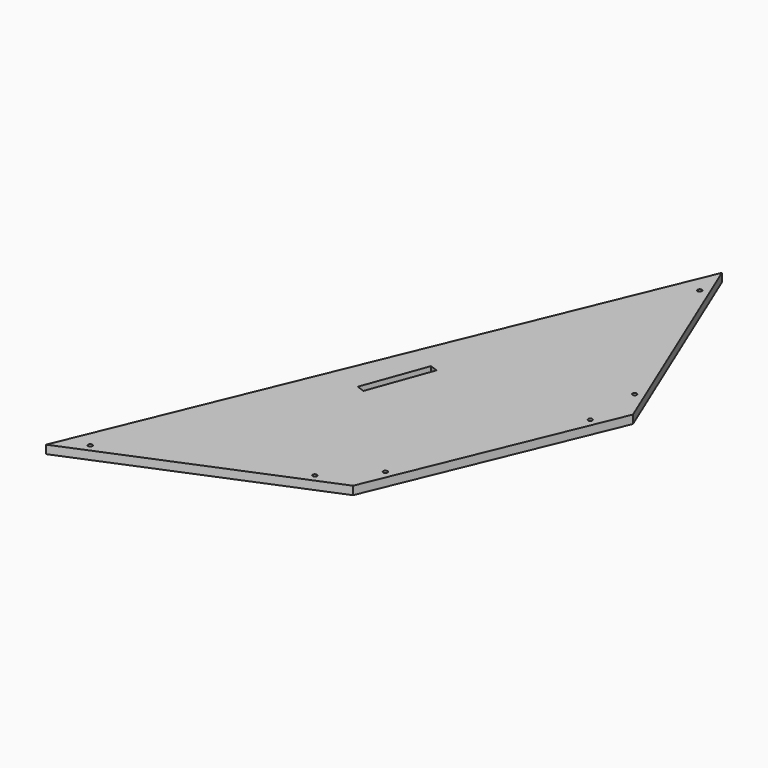
from build123d import *

# Parameters (mm, degrees)
F1_DEPTH = 12.7
F3_DEPTH = 12.701
F5_DEPTH = 25.4


with BuildPart() as f1:
    # F0 (on Top) → F1 (new body)
    with BuildSketch(Plane.XY):
        Polygon((349.925731, -349.925731), (494.869714, 0), (349.925731, 349.925731), (0, -494.869714), align=None)
    extrude(amount=F1_DEPTH)

    # F2 (on face) → F3 (cut, through all)
    with BuildSketch(Plane.XY.offset(12.7)):
        with BuildLine():
            ThreePointArc((43.288021, -466.629443), (44.712917, -465.460061), (45.248001, -463.696126))
            ThreePointArc((45.248001, -463.696126), (39.433085, -461.93219), (43.288021, -466.629443))
        make_face()
        with BuildLine():
            ThreePointArc((299.347591, -360.566096), (300.772487, -359.396714), (301.307571, -357.632779))
            ThreePointArc((301.307571, -357.632779), (295.492655, -355.868843), (299.347591, -360.566096))
        make_face()
        with BuildLine():
            ThreePointArc((360.566096, -299.347591), (360.746772, -298.751982), (360.807779, -298.132571))
            ThreePointArc((360.807779, -298.132571), (358.252191, -295.018577), (354.699461, -296.917551))
            Line((354.699461, -296.917551), (357.632779, -298.132571))
            Line((357.632779, -298.132571), (360.566096, -299.347591))
        make_face()
        with BuildLine():
            Line((357.632779, -298.132571), (354.699461, -296.917551))
            ThreePointArc((354.699461, -296.917551), (356.417759, -301.065888), (360.566096, -299.347591))
            Line((360.566096, -299.347591), (357.632779, -298.132571))
        make_face()
        with BuildLine():
            ThreePointArc((466.629443, -43.288021), (466.810119, -42.692412), (466.871126, -42.073001))
            ThreePointArc((466.871126, -42.073001), (464.315537, -38.959007), (460.762808, -40.857981))
            Line((460.762808, -40.857981), (463.696126, -42.073001))
            Line((463.696126, -42.073001), (466.629443, -43.288021))
        make_face()
        with BuildLine():
            Line((463.696126, -42.073001), (460.762808, -40.857981))
            ThreePointArc((460.762808, -40.857981), (462.481106, -45.006318), (466.629443, -43.288021))
            Line((466.629443, -43.288021), (463.696126, -42.073001))
        make_face()
        with BuildLine():
            ThreePointArc((466.629443, 43.288021), (460.582132, 41.453589), (466.871126, 42.073001))
            ThreePointArc((466.871126, 42.073001), (466.810119, 42.692412), (466.629443, 43.288021))
        make_face()
        with BuildLine():
            ThreePointArc((360.566096, 299.347591), (354.518786, 297.513159), (360.807779, 298.132571))
            ThreePointArc((360.807779, 298.132571), (360.746772, 298.751982), (360.566096, 299.347591))
        make_face()
    extrude(amount=-F3_DEPTH, mode=Mode.SUBTRACT)

    # F4 (on face) → F5 (cut)
    with BuildSketch(Plane.XY.offset(12.7)):
        Polygon((230.305284, -52.50727), (195.584189, -147.990282), (207.519565, -152.330419), (242.24066, -56.847407), align=None)
    extrude(amount=-F5_DEPTH, mode=Mode.SUBTRACT)


solid = f1.part
